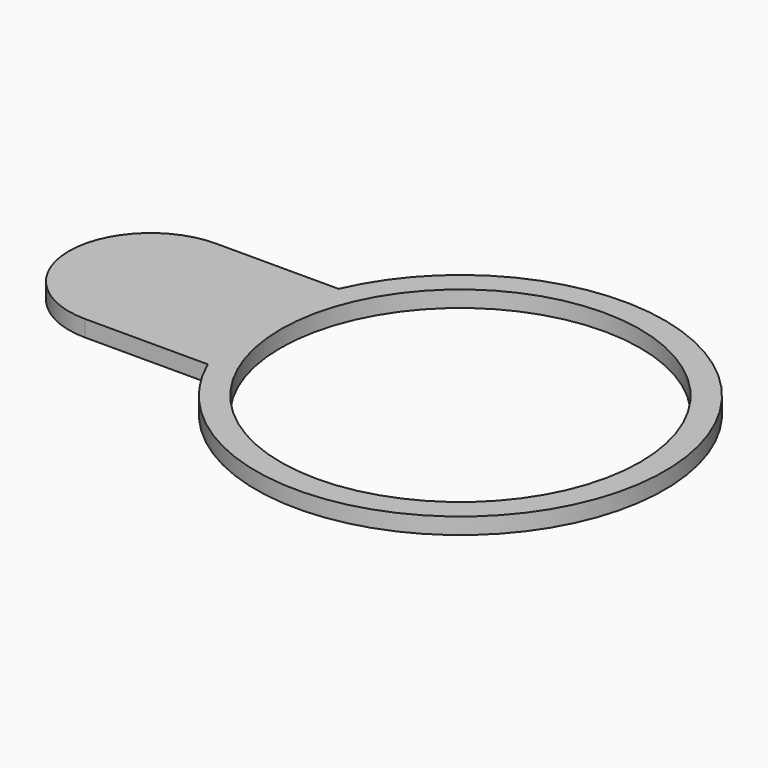
from build123d import *

# Parameters (mm, degrees)
SKETCH_R  = 22
PAD_DEPTH = 2


with BuildPart() as part:
    # Sketch → Pad (new body)
    with BuildSketch(Plane.XY):
        with BuildLine():
            ThreePointArc((-22.912878, -10), (25, 0), (-22.912878, 10))
            Line((-37.912878, 10), (-22.912878, 10))
            ThreePointArc((-37.912878, 10), (-47.912878, 0), (-37.912878, -10))
            Line((-22.912878, -10), (-37.912878, -10))
        make_face()
        Circle(SKETCH_R, mode=Mode.SUBTRACT)
    extrude(amount=PAD_DEPTH)


solid = part.part
